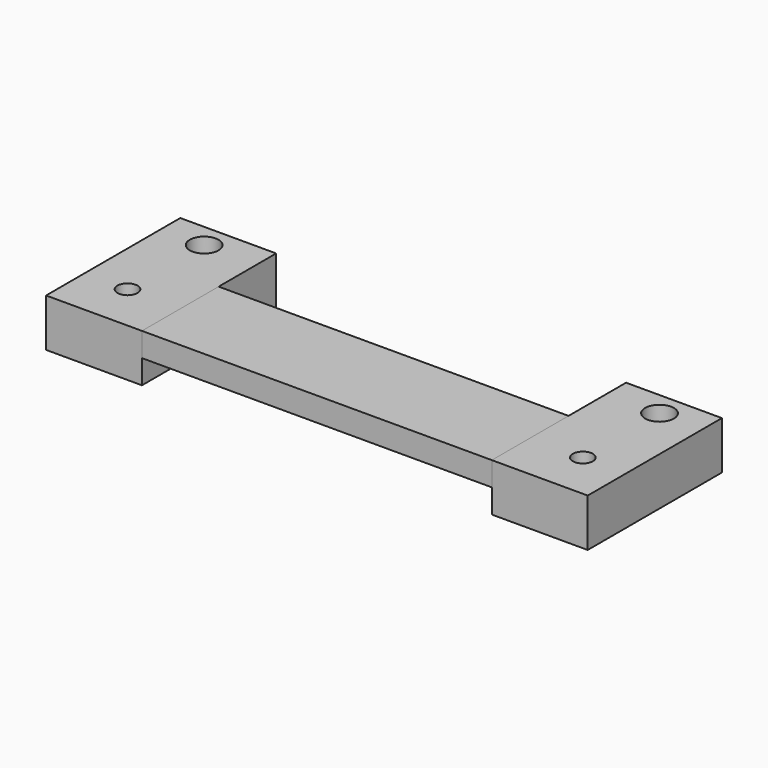
from build123d import *

# Parameters (mm, degrees)
F0_W     = 73
F0_H     = 20
F1_DEPTH = 5
F3_DEPTH = 10
F4_R     = 2.1
F4_R_2   = 3
F5_DEPTH = 25
F6_R     = 5
F6_R_2   = 2.1
F7_DEPTH = 5


with BuildPart() as f1:
    # F0 (on Top) → F1 (new body)
    with BuildSketch(Plane.XY):
        with Locations((56.5, 10)):
            Rectangle(F0_W, F0_H)
    extrude(amount=F1_DEPTH)


with BuildPart() as f3:
    # F2 (on face) → F3 (new body)
    with BuildSketch(Plane.XY.offset(5)):
        Polygon((0, 35), (0, 0), (20, 0), (20, 20), (20, 35), align=None)
        Polygon((93, 20), (93, 0), (113, 0), (113, 35), (93, 35), align=None)
    extrude(amount=-F3_DEPTH)

    # F4 (on face) → F5 (cut)
    with BuildSketch(Plane(origin=(0, 0, -5), x_dir=(1, 0, 0), z_dir=(0, 0, -1))):
        with Locations((9, -9.98)):
            Circle(F4_R)
        with Locations((9, -29.98)):
            Circle(F4_R_2)
        with Locations((104, -9.98)):
            Circle(F4_R)
        with Locations((104, -29.98)):
            Circle(F4_R_2)
    extrude(amount=-F5_DEPTH, mode=Mode.SUBTRACT)

    # F6 (on face) → F7 (cut)
    with BuildSketch(Plane(origin=(0, 0, -5), x_dir=(1, 0, 0), z_dir=(0, 0, -1))):
        with Locations((9, -9.98)):
            Circle(F6_R)
        with Locations((9, -9.98)):
            Circle(F6_R_2, mode=Mode.SUBTRACT)
        with Locations((104.1, -9.979821)):
            Circle(F6_R)
    extrude(amount=-F7_DEPTH, mode=Mode.SUBTRACT)


solid = Compound([f1.part, f3.part])
